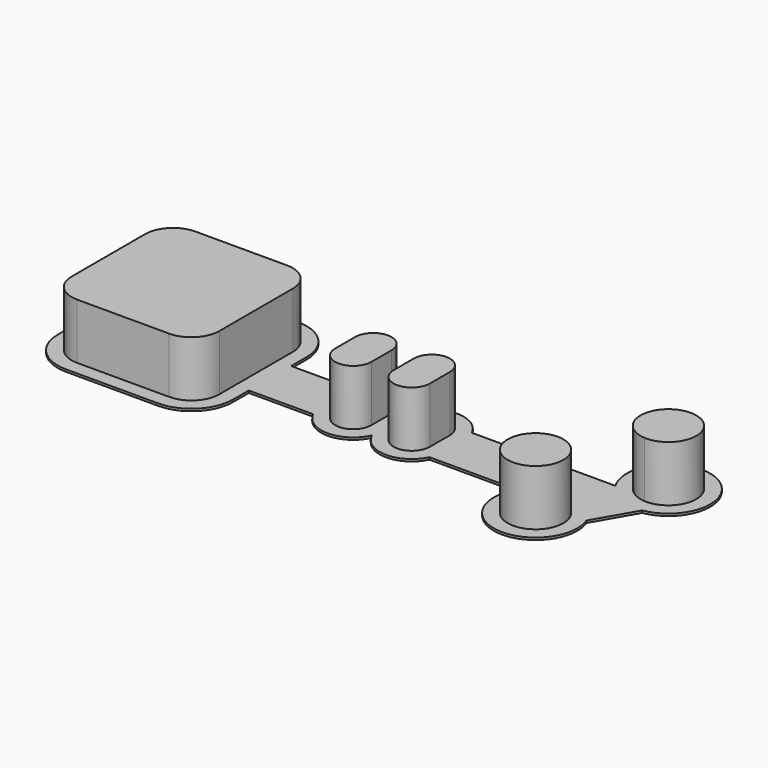
from build123d import *

# Parameters (mm, degrees)
F0_W     = 16
F0_H     = 4.5
F0_W_2   = 6.5
F0_W_3   = 4
F1_DEPTH = 0.4
F2_W     = 6.5
F2_H     = 4.5
F3_DEPTH = 10


with BuildPart() as f1:
    # F0 (on Top) → F1 (new body)
    with BuildSketch(Plane.XY):
        with BuildLine():
            Line((15.75, 4.75), (15.75, 8.25))
            ThreePointArc((15.75, 8.25), (13.5533008589, 13.5533008589), (8.25, 15.75))
            Line((8.25, 15.75), (-8.25, 15.75))
            ThreePointArc((-8.25, 15.75), (-13.5533008589, 13.5533008589), (-15.75, 8.25))
            Line((-15.75, 8.25), (-15.75, -8.25))
            ThreePointArc((-15.75, -8.25), (-13.5533008589, -13.5533008589), (-8.25, -15.75))
            Line((-8.25, -15.75), (8.25, -15.75))
            ThreePointArc((8.25, -15.75), (13.5533008589, -13.5533008589), (15.75, -8.25))
            Line((15.75, -8.25), (15.75, -4.75))
            Line((15.75, -4.75), (27.3219212057, -4.75))
            ThreePointArc((27.3219212057, -4.75), (32.5853423404, -7.9993666334), (37.75, -4.5952078799))
            ThreePointArc((37.75, -4.5952078799), (42.9146576596, -7.9993666334), (48.1780787943, -4.75))
            Line((48.1780787943, -4.75), (63.9480829801, -4.75))
            ThreePointArc((63.9480829801, -4.75), (69.6474451199, -16.1274567319), (77.3637435709, -6.0087617221))
            Line((77.3637435709, -6.0087617221), (81.5596501878, 1.2587617221))
            ThreePointArc((81.5596501878, 1.2587617221), (83.4749132345, 15.4773568118), (73.9480829801, 4.75))
            Line((73.9480829801, 4.75), (48.1780787943, 4.75))
            ThreePointArc((48.1780787943, 4.75), (42.9146576596, 7.9993666334), (37.75, 4.5952078799))
            ThreePointArc((37.75, 4.5952078799), (32.5853423404, 7.9993666334), (27.3219212057, 4.75))
            Line((27.3219212057, 4.75), (15.75, 4.75))
        make_face()
        with BuildLine():
            ThreePointArc((-13.25, 8.25), (-11.7855339059, 11.7855339059), (-8.25, 13.25))
            Line((-8.25, 13.25), (-4.5, 13.25))
            Line((-4.5, 13.25), (4.5, 13.25))
            Line((4.5, 13.25), (8.25, 13.25))
            ThreePointArc((8.25, 13.25), (11.7855339059, 11.7855339059), (13.25, 8.25))
            Line((13.25, 8.25), (13.25, 4.5))
            Line((13.25, 4.5), (13.25, 2.25))
            Line((13.25, 2.25), (29.25, 2.25))
            ThreePointArc((29.25, 2.25), (32.5, 5.5), (35.75, 2.25))
            Line((35.75, 2.25), (39.75, 2.25))
            ThreePointArc((39.75, 2.25), (43, 5.5), (46.25, 2.25))
            Line((46.25, 2.25), (74.0490381057, 2.25))
            Line((74.0490381057, 2.25), (76.1669476654, 5.9183269633))
            ThreePointArc((76.1669476654, 5.9183269633), (82.8480762114, 12.9903810568), (80.0640619824, 3.6683269633))
            Line((80.0640619824, 3.6683269633), (74.5292047573, -5.9183269633))
            ThreePointArc((74.5292047573, -5.9183269633), (67.8480762114, -12.9903810568), (70.6320904403, -3.6683269633))
            Line((70.6320904403, -3.6683269633), (71.4509618943, -2.25))
            Line((71.4509618943, -2.25), (46.25, -2.25))
            ThreePointArc((46.25, -2.25), (43, -5.5), (39.75, -2.25))
            Line((39.75, -2.25), (35.75, -2.25))
            ThreePointArc((35.75, -2.25), (32.5, -5.5), (29.25, -2.25))
            Line((29.25, -2.25), (13.25, -2.25))
            Line((13.25, -2.25), (13.25, -4.5))
            Line((13.25, -4.5), (13.25, -8.25))
            ThreePointArc((13.25, -8.25), (11.7855339059, -11.7855339059), (8.25, -13.25))
            Line((8.25, -13.25), (4.5, -13.25))
            Line((4.5, -13.25), (-4.5, -13.25))
            Line((-4.5, -13.25), (-8.25, -13.25))
            ThreePointArc((-8.25, -13.25), (-11.7855339059, -11.7855339059), (-13.25, -8.25))
            Line((-13.25, -8.25), (-13.25, -4.5))
            Line((-13.25, -4.5), (-13.25, 4.5))
            Line((-13.25, 4.5), (-13.25, 8.25))
        make_face(mode=Mode.SUBTRACT)
        Polygon((74.0490381057, 2.25), (46.25, 2.25), (46.25, -2.25), (71.4509618943, -2.25), align=None)
        Polygon((4.5, 13.25), (-4.5, 13.25), (-4.5, 4.5), (0, 4.5), (4.5, 4.5), align=None)
        Polygon((13.25, 4.5), (4.5, 4.5), (4.5, 0), (4.5, -4.5), (13.25, -4.5), (13.25, -2.25), (13.25, 2.25), align=None)
        Polygon((-4.5, 0), (-4.5, 4.5), (-13.25, 4.5), (-13.25, -4.5), (-4.5, -4.5), align=None)
        Polygon((4.5, -4.5), (0, -4.5), (-4.5, -4.5), (-4.5, -13.25), (4.5, -13.25), align=None)
        with BuildLine():
            ThreePointArc((74.5292047573, -5.9183269633), (72.8480762114, -4.3301270189), (70.6320904403, -3.6683269633))
            ThreePointArc((70.6320904403, -3.6683269633), (67.8480762114, -12.9903810568), (74.5292047573, -5.9183269633))
        make_face()
        with BuildLine():
            ThreePointArc((80.0640619824, 3.6683269633), (82.8480762114, 12.9903810568), (76.1669476654, 5.9183269633))
            ThreePointArc((76.1669476654, 5.9183269633), (77.8480762114, 4.3301270189), (80.0640619824, 3.6683269633))
        make_face()
        with Locations((21.25, 0)):
            Rectangle(F0_W, F0_H)
        with BuildLine():
            Line((-4.5, -4.5), (-13.25, -4.5))
            Line((-13.25, -4.5), (-13.25, -8.25))
            ThreePointArc((-13.25, -8.25), (-11.7855339059, -11.7855339059), (-8.25, -13.25))
            Line((-8.25, -13.25), (-4.5, -13.25))
            Line((-4.5, -13.25), (-4.5, -4.5))
        make_face()
        with BuildLine():
            Line((13.25, -4.5), (4.5, -4.5))
            Line((4.5, -4.5), (4.5, -13.25))
            Line((4.5, -13.25), (8.25, -13.25))
            ThreePointArc((8.25, -13.25), (11.7855339059, -11.7855339059), (13.25, -8.25))
            Line((13.25, -8.25), (13.25, -4.5))
        make_face()
        with BuildLine():
            Line((-4.5, 13.25), (-8.25, 13.25))
            ThreePointArc((-8.25, 13.25), (-11.7855339059, 11.7855339059), (-13.25, 8.25))
            Line((-13.25, 8.25), (-13.25, 4.5))
            Line((-13.25, 4.5), (-4.5, 4.5))
            Line((-4.5, 4.5), (-4.5, 13.25))
        make_face()
        with BuildLine():
            Line((8.25, 13.25), (4.5, 13.25))
            Line((4.5, 13.25), (4.5, 4.5))
            Line((4.5, 4.5), (13.25, 4.5))
            Line((13.25, 4.5), (13.25, 8.25))
            ThreePointArc((13.25, 8.25), (11.7855339059, 11.7855339059), (8.25, 13.25))
        make_face()
        with BuildLine():
            ThreePointArc((0, 4.5), (-3.1819805153, 3.1819805153), (-4.5, 0))
            ThreePointArc((-4.5, 0), (-3.1819805153, -3.1819805153), (0, -4.5))
            ThreePointArc((0, -4.5), (3.1819805153, -3.1819805153), (4.5, 0))
            ThreePointArc((4.5, 0), (3.1819805153, 3.1819805153), (0, 4.5))
        make_face()
        with BuildLine():
            Line((76.1669476654, 5.9183269633), (74.0490381057, 2.25))
            Line((74.0490381057, 2.25), (71.4509618943, -2.25))
            Line((71.4509618943, -2.25), (70.6320904403, -3.6683269633))
            ThreePointArc((70.6320904403, -3.6683269633), (72.8480762114, -4.3301270189), (74.5292047573, -5.9183269633))
            Line((74.5292047573, -5.9183269633), (80.0640619824, 3.6683269633))
            ThreePointArc((80.0640619824, 3.6683269633), (77.8480762114, 4.3301270189), (76.1669476654, 5.9183269633))
        make_face()
        with Locations((32.5, 0)):
            Rectangle(F0_W_2, F0_H)
        with Locations((43, 0)):
            Rectangle(F0_W_2, F0_H)
        with Locations((37.75, 0)):
            Rectangle(F0_W_3, F0_H)
        with BuildLine():
            ThreePointArc((35.75, 2.25), (32.5, 5.5), (29.25, 2.25))
            Line((29.25, 2.25), (35.75, 2.25))
        make_face()
        with BuildLine():
            Line((35.75, -2.25), (29.25, -2.25))
            ThreePointArc((29.25, -2.25), (32.5, -5.5), (35.75, -2.25))
        make_face()
        with BuildLine():
            ThreePointArc((46.25, 2.25), (43, 5.5), (39.75, 2.25))
            Line((39.75, 2.25), (46.25, 2.25))
        make_face()
        with BuildLine():
            Line((46.25, -2.25), (39.75, -2.25))
            ThreePointArc((39.75, -2.25), (43, -5.5), (46.25, -2.25))
        make_face()
        with BuildLine():
            Line((4.5, 0), (4.5, 4.5))
            Line((4.5, 4.5), (0, 4.5))
            ThreePointArc((0, 4.5), (3.1819805153, 3.1819805153), (4.5, 0))
        make_face()
        with BuildLine():
            ThreePointArc((0, -4.5), (-3.1819805153, -3.1819805153), (-4.5, 0))
            Line((-4.5, 0), (-4.5, -4.5))
            Line((-4.5, -4.5), (0, -4.5))
        make_face()
        with BuildLine():
            Line((0, 4.5), (-4.5, 4.5))
            Line((-4.5, 4.5), (-4.5, 0))
            ThreePointArc((-4.5, 0), (-3.1819805153, 3.1819805153), (0, 4.5))
        make_face()
        with BuildLine():
            Line((4.5, -4.5), (4.5, 0))
            ThreePointArc((4.5, 0), (3.1819805153, -3.1819805153), (0, -4.5))
            Line((0, -4.5), (4.5, -4.5))
        make_face()
    extrude(amount=F1_DEPTH)

    # F2 (on face) → F3 (join)
    with BuildSketch(Plane.XY.offset(0.4)):
        with BuildLine():
            Line((8.25, 13.25), (4.5, 13.25))
            Line((4.5, 13.25), (4.5, 4.5))
            Line((4.5, 4.5), (13.25, 4.5))
            Line((13.25, 4.5), (13.25, 8.25))
            ThreePointArc((13.25, 8.25), (11.7855339059, 11.7855339059), (8.25, 13.25))
        make_face()
        Polygon((13.25, 4.5), (4.5, 4.5), (4.5, 0), (4.5, -4.5), (13.25, -4.5), (13.25, -2.25), (13.25, 2.25), align=None)
        with BuildLine():
            Line((4.5, 0), (4.5, 4.5))
            Line((4.5, 4.5), (0, 4.5))
            ThreePointArc((0, 4.5), (3.1819805153, 3.1819805153), (4.5, 0))
        make_face()
        with BuildLine():
            ThreePointArc((0, 4.5), (-3.1819805153, 3.1819805153), (-4.5, 0))
            ThreePointArc((-4.5, 0), (-3.1819805153, -3.1819805153), (0, -4.5))
            ThreePointArc((0, -4.5), (3.1819805153, -3.1819805153), (4.5, 0))
            ThreePointArc((4.5, 0), (3.1819805153, 3.1819805153), (0, 4.5))
        make_face()
        with BuildLine():
            Line((0, 4.5), (-4.5, 4.5))
            Line((-4.5, 4.5), (-4.5, 0))
            ThreePointArc((-4.5, 0), (-3.1819805153, 3.1819805153), (0, 4.5))
        make_face()
        Polygon((4.5, -4.5), (0, -4.5), (-4.5, -4.5), (-4.5, -13.25), (4.5, -13.25), align=None)
        with BuildLine():
            ThreePointArc((0, -4.5), (-3.1819805153, -3.1819805153), (-4.5, 0))
            Line((-4.5, 0), (-4.5, -4.5))
            Line((-4.5, -4.5), (0, -4.5))
        make_face()
        with BuildLine():
            Line((4.5, -4.5), (4.5, 0))
            ThreePointArc((4.5, 0), (3.1819805153, -3.1819805153), (0, -4.5))
            Line((0, -4.5), (4.5, -4.5))
        make_face()
        with BuildLine():
            Line((13.25, -4.5), (4.5, -4.5))
            Line((4.5, -4.5), (4.5, -13.25))
            Line((4.5, -13.25), (8.25, -13.25))
            ThreePointArc((8.25, -13.25), (11.7855339059, -11.7855339059), (13.25, -8.25))
            Line((13.25, -8.25), (13.25, -4.5))
        make_face()
        Polygon((4.5, 13.25), (-4.5, 13.25), (-4.5, 4.5), (0, 4.5), (4.5, 4.5), align=None)
        with BuildLine():
            Line((-4.5, 13.25), (-8.25, 13.25))
            ThreePointArc((-8.25, 13.25), (-11.7855339059, 11.7855339059), (-13.25, 8.25))
            Line((-13.25, 8.25), (-13.25, 4.5))
            Line((-13.25, 4.5), (-4.5, 4.5))
            Line((-4.5, 4.5), (-4.5, 13.25))
        make_face()
        Polygon((-4.5, 0), (-4.5, 4.5), (-13.25, 4.5), (-13.25, -4.5), (-4.5, -4.5), align=None)
        with BuildLine():
            Line((-4.5, -4.5), (-13.25, -4.5))
            Line((-13.25, -4.5), (-13.25, -8.25))
            ThreePointArc((-13.25, -8.25), (-11.7855339059, -11.7855339059), (-8.25, -13.25))
            Line((-8.25, -13.25), (-4.5, -13.25))
            Line((-4.5, -13.25), (-4.5, -4.5))
        make_face()
        with BuildLine():
            ThreePointArc((35.75, 2.25), (32.5, 5.5), (29.25, 2.25))
            Line((29.25, 2.25), (35.75, 2.25))
        make_face()
        with Locations((32.5, 0)):
            Rectangle(F2_W, F2_H)
        with BuildLine():
            Line((35.75, -2.25), (29.25, -2.25))
            ThreePointArc((29.25, -2.25), (32.5, -5.5), (35.75, -2.25))
        make_face()
        with BuildLine():
            Line((46.25, -2.25), (39.75, -2.25))
            ThreePointArc((39.75, -2.25), (43, -5.5), (46.25, -2.25))
        make_face()
        with Locations((43, 0)):
            Rectangle(F2_W, F2_H)
        with BuildLine():
            ThreePointArc((46.25, 2.25), (43, 5.5), (39.75, 2.25))
            Line((39.75, 2.25), (46.25, 2.25))
        make_face()
        with BuildLine():
            ThreePointArc((72.8480762114, -4.3301270189), (71.7788727151, -3.8693437522), (70.6320904403, -3.6683269633))
            ThreePointArc((70.6320904403, -3.6683269633), (67.8480762114, -12.9903810568), (74.5292047573, -5.9183269633))
            ThreePointArc((74.5292047573, -5.9183269633), (73.7817279741, -5.0256927751), (72.8480762114, -4.3301270189))
        make_face()
        with BuildLine():
            ThreePointArc((80.0640619824, 3.6683269633), (82.8480762114, 12.9903810568), (76.1669476654, 5.9183269633))
            ThreePointArc((76.1669476654, 5.9183269633), (76.9144244486, 5.0256927751), (77.8480762114, 4.3301270189))
            ThreePointArc((77.8480762114, 4.3301270189), (78.9172797076, 3.8693437522), (80.0640619824, 3.6683269633))
        make_face()
    extrude(amount=F3_DEPTH)


solid = f1.part
